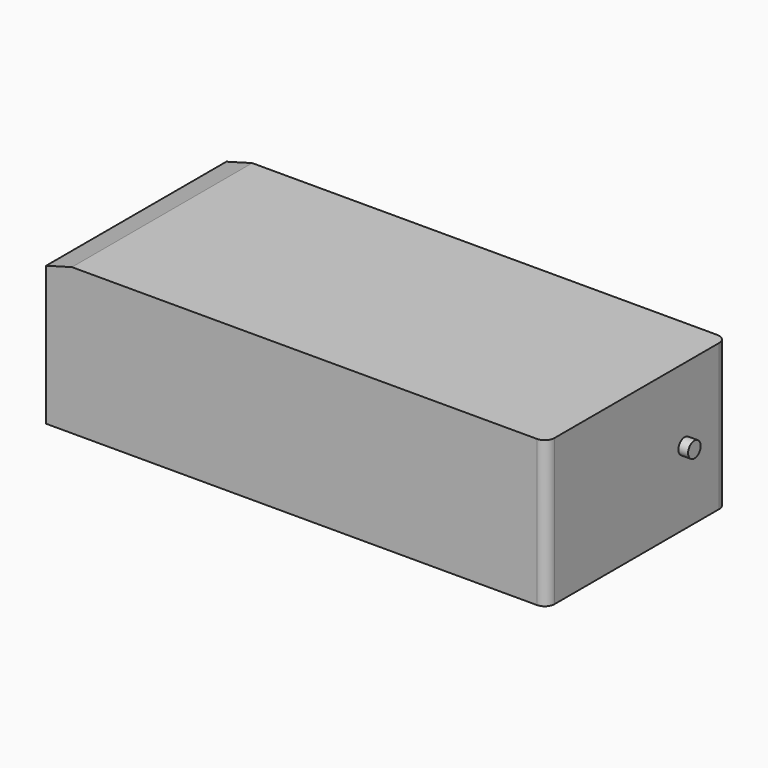
from build123d import *

# Parameters (mm, degrees)
F0_W     = 51.54
F0_H     = 23.2
F1_DEPTH = 7.53
F2_R     = 1
F3_R     = 0.8075065721
F4_DEPTH = 1
F6_DEPTH = 23.2


with BuildPart() as f1:
    # F0 (on Top) → F1 (new body, symmetric)
    with BuildSketch(Plane.XY):
        Rectangle(F0_W, F0_H)
    extrude(amount=F1_DEPTH, both=True)

    # F2
    f2_edges = [f1.edges().sort_by_distance(p)[0] for p in [
        (25.77, 11.6, 0),
        (25.77, -11.6, 0),
    ]]
    fillet(f2_edges, radius=F2_R)

    # F3 (on face) → F4 (join)
    with BuildSketch(Plane.YZ.offset(25.77)):
        with Locations((6.1538815498, 0)):
            Circle(F3_R)
    extrude(amount=F4_DEPTH)

    # F5 (on face) → F6 (cut, through all)
    with BuildSketch(Plane.XZ.offset(11.6)):
        Polygon((-25.77, 7.53), (-25.77, 6.7921262234), (-23.1085941195, 7.53), align=None)
    extrude(amount=-F6_DEPTH, mode=Mode.SUBTRACT)


solid = f1.part
